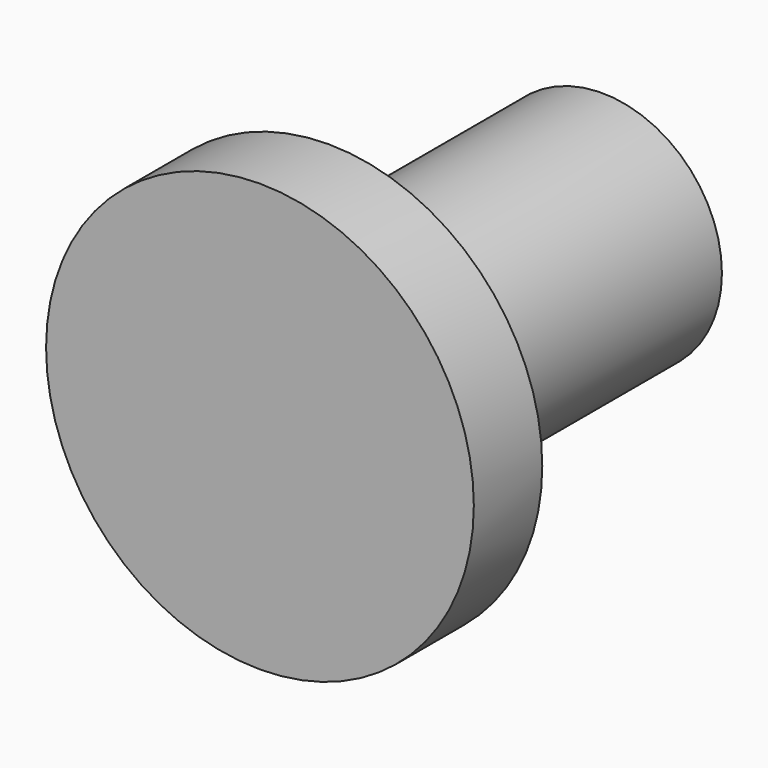
from build123d import *

# Parameters (mm, degrees)
F0_R     = 2.5
F0_R_2   = 1.4
F1_DEPTH = 1
F2_DEPTH = 5


with BuildPart() as f1:
    # F0 (on Front) → F1 (new body)
    with BuildSketch(Plane.XZ):
        Circle(F0_R)
        Circle(F0_R_2, mode=Mode.SUBTRACT)
        Circle(F0_R_2)
    extrude(amount=-F1_DEPTH)

    # F0 (on Front) → F2 (join)
    with BuildSketch(Plane.XZ):
        Circle(F0_R_2)
    extrude(amount=-F2_DEPTH)


solid = f1.part
